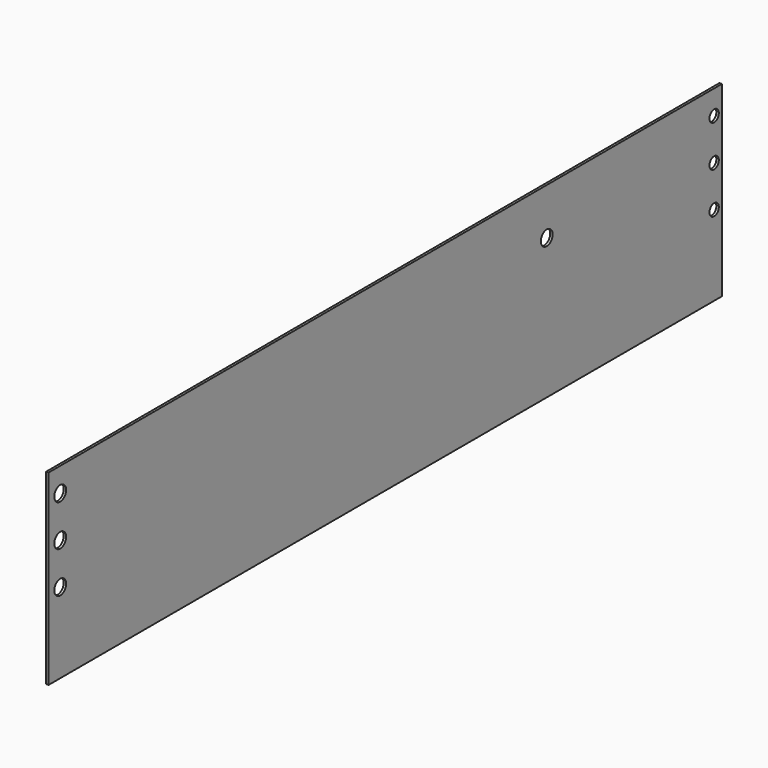
from build123d import *

# Parameters (mm, degrees)
F1_DEPTH = 0.8001
F2_D     = 4.826
F3_D     = 3.81


with BuildPart() as f1:
    # F0 (on Right) → F1 (new body)
    with BuildSketch(Plane.YZ):
        Polygon((274.6375, -12.7), (274.6375, 0), (274.6375, 48.3108), (0, 48.3108), (0, 0), (0, -12.7), align=None)
    extrude(amount=F1_DEPTH)

    # F2 (through all)
    with Locations(Plane(origin=(0, 0, 0), x_dir=(0, 1, 0), z_dir=(-1, 0, 0))):
        with Locations((4.7625, -40.4241), (4.7625, -26.9494), (4.7625, -13.4747), (203.2, -33.1423059973)):
            Hole(F2_D / 2)

    # F3 (through all)
    with Locations(Plane(origin=(0, 0, 0), x_dir=(0, 1, 0), z_dir=(-1, 0, 0))):
        with Locations((271.4625, -40.4241), (271.4625, -26.9494), (271.4625, -13.4747)):
            Hole(F3_D / 2)


solid = f1.part
